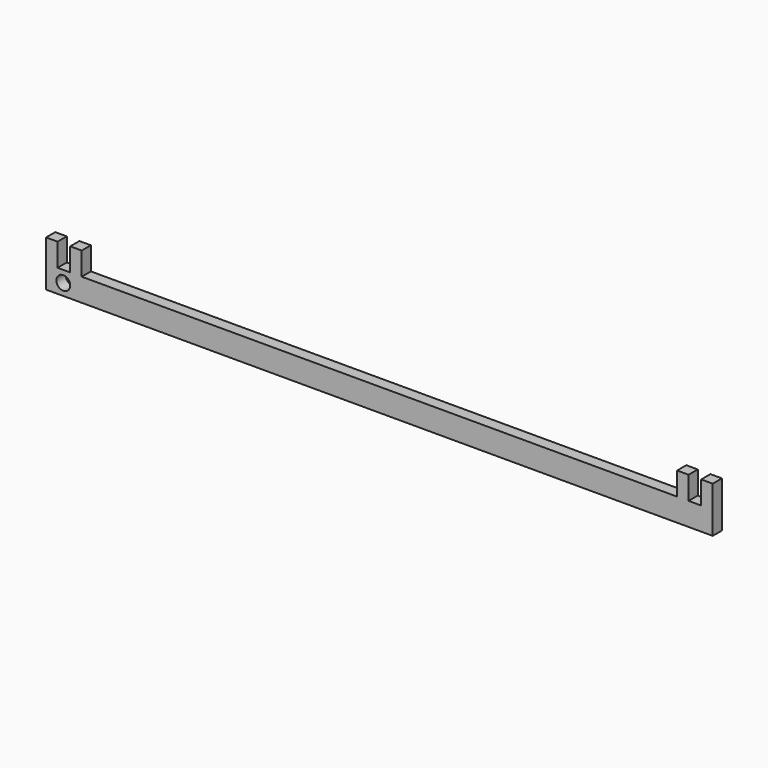
from build123d import *

# Parameters (mm, degrees)
F0_R     = 3
F1_DEPTH = 5


with BuildPart() as f1:
    # F0 (on Front) → F1 (new body)
    with BuildSketch(Plane.XZ):
        Polygon((-145, -10), (145, -10), (145, 10), (140, 10), (140, 0), (134.5, 0), (134.5, 10), (129.5, 10), (129.5, 0), (-129.5, 0), (-129.5, 10), (-134.5, 10), (-134.5, 0), (-140, 0), (-140, 10), (-145, 10), align=None)
        with Locations((-137.5, -5)):
            Circle(F0_R, mode=Mode.SUBTRACT)
    extrude(amount=F1_DEPTH)


solid = f1.part
